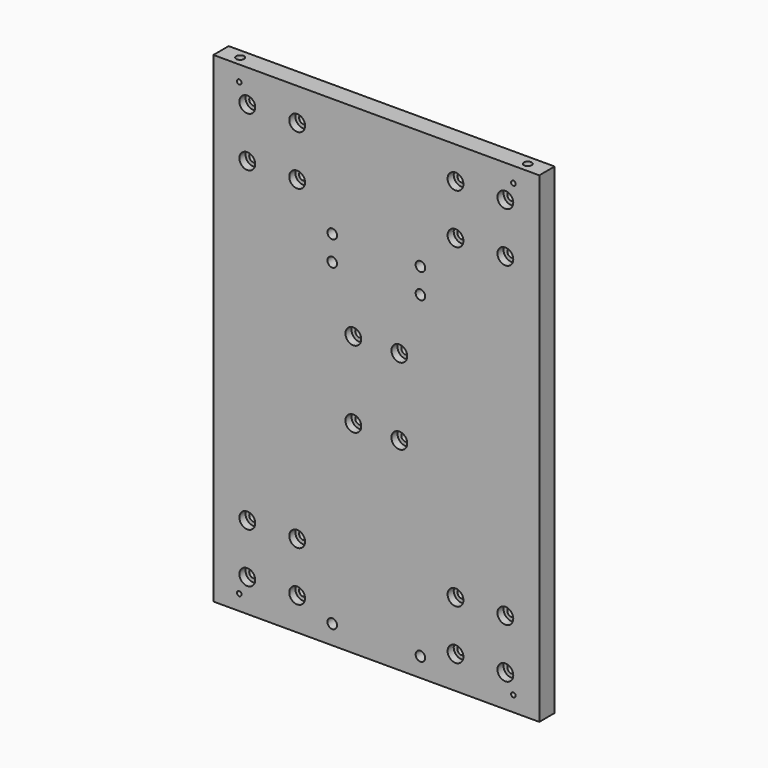
from build123d import *

# Parameters (mm, degrees)
F0_W           = 170
F0_H           = 246
F1_DEPTH       = 10
F3_D           = 2.4
F4_D           = 5
F5_DEPTH       = 5
F6_D           = 4.4
F6_CBORE_D     = 8.25
F6_CBORE_DEPTH = 4
F8_D           = 4.1
F8_DEPTH       = 10
F8_TIP         = 1.231764269
F9_D           = 4.4
F9_CBORE_D     = 8.25
F9_CBORE_DEPTH = 4


with BuildPart() as f1:
    # F0 (on Front) → F1 (new body)
    with BuildSketch(Plane.XZ):
        with Locations((41.415355131, 82.0599055054)):
            Rectangle(F0_W, F0_H)
    extrude(amount=F1_DEPTH)

    # F3 (through all)
    with Locations(Plane.XZ.offset(10)):
        with Locations((112.915355131, 202.0599055054), (-30.084644869, 202.0599055054), (-30.084644869, -32.9400944946), (112.915355131, -32.9400944946)):
            Hole(F3_D / 2)

    # F4 (through all)
    with Locations(Plane.XZ.offset(10)):
        with Locations((18.415355131, 148.0599055054), (64.415355131, 148.0599055054), (64.415355131, 135.0599055054), (18.415355131, 135.0599055054), (18.415355131, -30.9400944946), (64.415355131, -30.9400944946)):
            Hole(F4_D / 2)

    # F5 (add): a face of the model
    f5_faces = [f1.faces().sort_by_distance(p)[0] for p in [
        (41.415355131, -5, 205.0599055054),
    ]]
    extrude(f5_faces, amount=F5_DEPTH)

    # F6 (through all)
    with Locations(Plane.XZ.offset(10)):
        with Locations((-25.884644869, -23.9400944946), (-25.884644869, 2.0599055054), (0.115355131, 2.0599055054), (0.115355131, -23.9400944946), (82.715355131, -23.9400944946), (82.715355131, 2.0599055054), (108.715355131, 2.0599055054), (108.715355131, -23.9400944946), (-25.884644869, 193.0599055054), (-25.884644869, 167.0599055054), (0.115355131, 167.0599055054), (0.115355131, 193.0599055054), (82.715355131, 193.0599055054), (108.715355131, 193.0599055054), (108.715355131, 167.0599055054), (82.715355131, 167.0599055054)):
            CounterBoreHole(F6_D / 2, F6_CBORE_D / 2, F6_CBORE_DEPTH)

    # F8
    with Locations(Plane.XY.offset(210.0599055054)):
        with Locations((-33.584644869, -5), (116.415355131, -5)):
            Hole(F8_D / 2, depth=F8_DEPTH)
            with Locations((0, 0, -(F8_DEPTH + F8_TIP / 2))):  # 118° drill point
                Cone(0, F8_D / 2, F8_TIP, mode=Mode.SUBTRACT)

    # F9 (through all)
    with Locations(Plane.XZ.offset(10)):
        with Locations((29.415355131, 104.5599055054), (53.415355131, 104.5599055054), (53.415355131, 64.5599055054), (29.415355131, 64.5599055054)):
            CounterBoreHole(F9_D / 2, F9_CBORE_D / 2, F9_CBORE_DEPTH)


solid = f1.part
